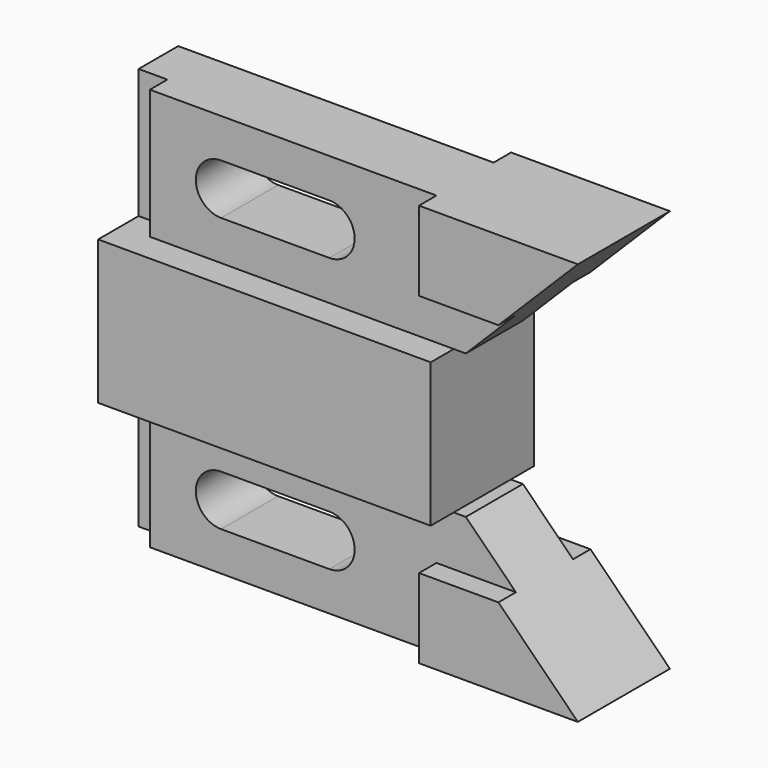
from build123d import *

# Parameters (mm, degrees)
F1_DEPTH = 14.224
F0_W     = 6.35
F0_H     = 28.575
F2_DEPTH = 7.874
F3_DEPTH = 12.7
F4_W     = 6.35
F4_H     = 28.575
F5_DEPTH = 4.826


with BuildPart() as f1:
    # F0 (on Front) → F1 (new body, symmetric)
    with BuildSketch(Plane.XZ):
        Polygon((0, 60.325), (0, 28.575), (6.35, 28.575), (73.406, 28.575), (73.406, 60.325), (6.35, 60.325), align=None)
    extrude(amount=F1_DEPTH, both=True)

    # F0 (on Front) → F2 (join, symmetric)
    with BuildSketch(Plane.XZ):
        Polygon((6.35, 88.9), (6.35, 60.325), (73.406, 60.325), (76.073, 60.325), (87.122, 71.374), (69.596, 71.374), (69.596, 88.9), align=None)
        with BuildLine():
            Line((45.945375, 69.088), (22.069375, 69.088))
            ThreePointArc((22.069375, 69.088), (16.481375, 74.676), (22.069375, 80.264))
            Line((22.069375, 80.264), (45.945375, 80.264))
            ThreePointArc((45.945375, 80.264), (51.533375, 74.676), (45.945375, 69.088))
        make_face(mode=Mode.SUBTRACT)
        Polygon((6.35, 28.575), (6.35, 0), (69.596, 0), (69.596, 17.526), (87.122, 17.526), (76.073, 28.575), (73.406, 28.575), align=None)
        with BuildLine():
            ThreePointArc((22.069375, 8.636), (16.481375, 14.224), (22.069375, 19.812))
            Line((22.069375, 19.812), (45.945375, 19.812))
            ThreePointArc((45.945375, 19.812), (51.533375, 14.224), (45.945375, 8.636))
            Line((45.945375, 8.636), (22.069375, 8.636))
        make_face(mode=Mode.SUBTRACT)
        with Locations((3.175, 74.6125)):
            Rectangle(F0_W, F0_H)
        with Locations((3.175, 14.2875)):
            Rectangle(F0_W, F0_H)
    extrude(amount=F2_DEPTH, both=True)

    # F0 (on Front) → F3 (join, symmetric)
    with BuildSketch(Plane.XZ):
        Polygon((104.648, 88.9), (69.596, 88.9), (69.596, 71.374), (87.122, 71.374), align=None)
        Polygon((69.596, 17.526), (69.596, 0), (104.648, 0), (87.122, 17.526), align=None)
    extrude(amount=F3_DEPTH, both=True)

    # F4 (on face) → F5 (cut)
    with BuildSketch(Plane.XZ.offset(7.874)):
        with Locations((3.175, 74.6125)):
            Rectangle(F4_W, F4_H)
        with Locations((3.175, 14.2875)):
            Rectangle(F4_W, F4_H)
    extrude(amount=-F5_DEPTH, mode=Mode.SUBTRACT)


solid = f1.part
